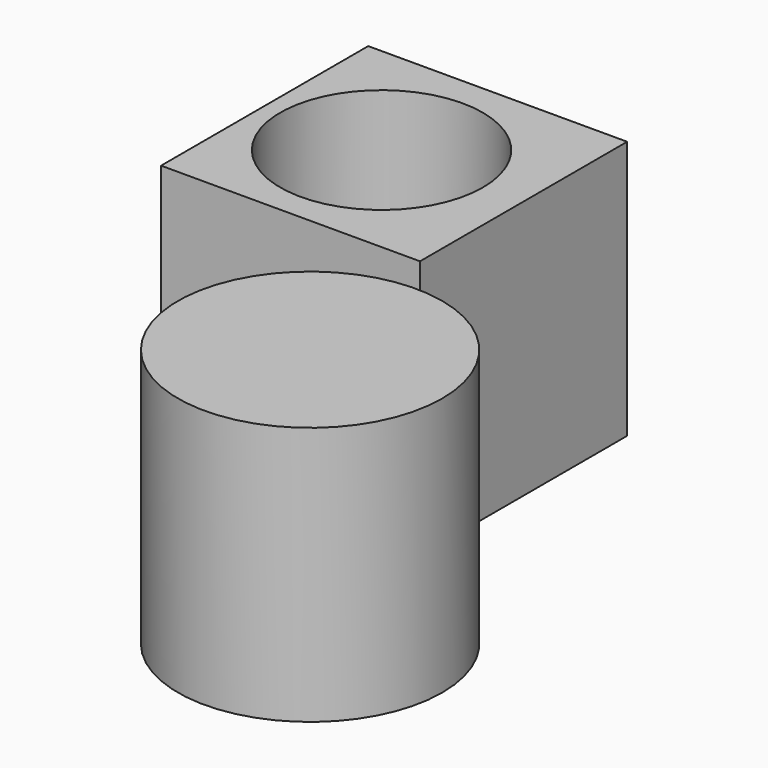
from build123d import *

# Parameters (mm, degrees)
F0_W     = 50
F0_H     = 50
F1_DEPTH = 50
F2_R     = 25.5197850682
F3_DEPTH = 50
F4_R     = 14.9130073931
F5_DEPTH = 50
F6_R     = 19.5662835943
F7_DEPTH = 50


with BuildPart() as f1:
    # F0 (on Top) → F1 (new body)
    with BuildSketch(Plane.XY):
        with Locations((-25, 25)):
            Rectangle(F0_W, F0_H)
    extrude(amount=F1_DEPTH)

    # F4 (on Top) → F5 (cut)
    with BuildSketch(Plane.XY):
        with Locations((-28.0938092619, 25.0369701535)):
            Circle(F4_R)
    extrude(amount=-F5_DEPTH, mode=Mode.SUBTRACT)

    # F6 (on Top) → F7 (cut)
    with BuildSketch(Plane.XY):
        with Locations((-27.2204261273, 24.7458424419)):
            Circle(F6_R)
    extrude(amount=F7_DEPTH, mode=Mode.SUBTRACT)


with BuildPart() as f3:
    # F2 (on Top) → F3 (new body)
    with BuildSketch(Plane.XY):
        with Locations((5.0947340205, -32.8974127769)):
            Circle(F2_R)
    extrude(amount=F3_DEPTH)


solid = Compound([f1.part, f3.part])
